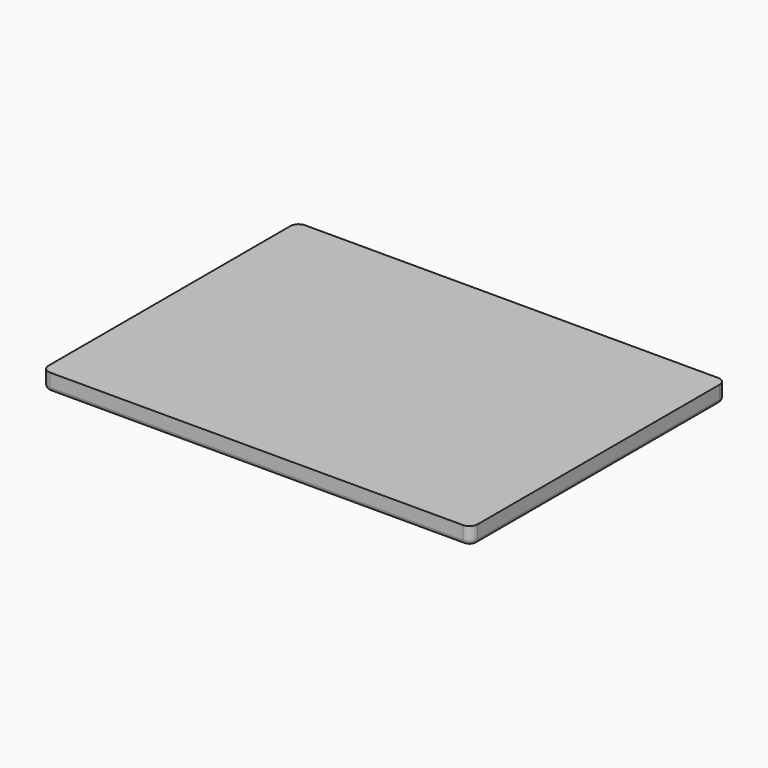
from build123d import *

# Parameters (mm, degrees)
F0_W     = 525
F0_H     = 390
F1_DEPTH = 21
F2_R     = 10
F3_R     = 5


with BuildPart() as f1:
    # F0 (on Top) → F1 (new body)
    with BuildSketch(Plane.XY):
        Rectangle(F0_W, F0_H)
        Rectangle(F0_W, F0_H)
    extrude(amount=F1_DEPTH)

    # F2
    f2_edges = [f1.edges().sort_by_distance(p)[0] for p in [
        (-262.5, 195, 10.5),
        (262.5, 195, 10.5),
        (262.5, -195, 10.5),
        (-262.5, -195, 10.5),
    ]]
    fillet(f2_edges, radius=F2_R)

    # F3
    f3_edges = [f1.edges().sort_by_distance(p)[0] for p in [
        (0, -195, 0),
    ]]
    fillet(f3_edges, radius=F3_R)


solid = f1.part
